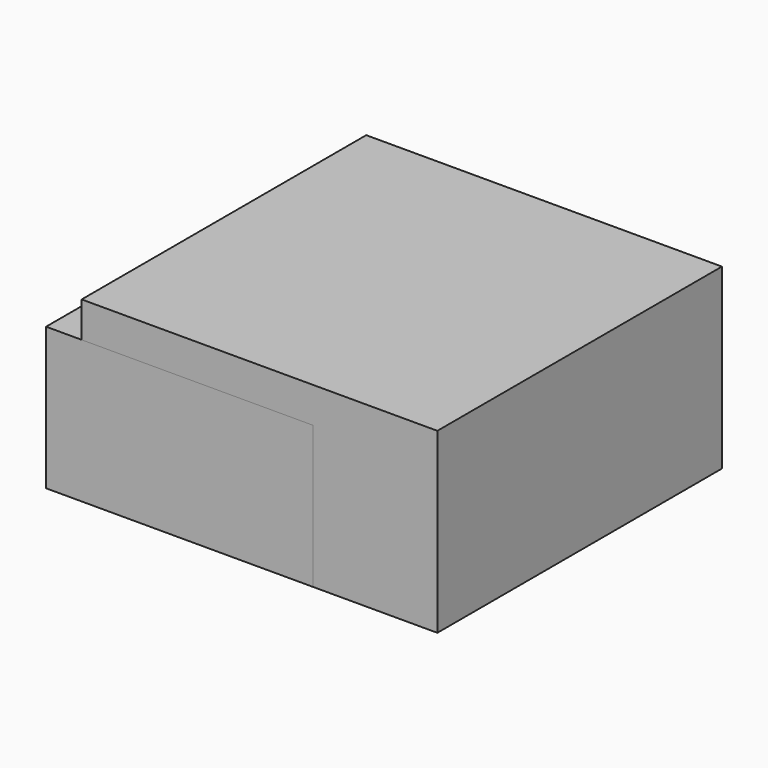
from build123d import *

# Parameters (mm, degrees)
F0_W     = 20
F0_H     = 20
F1_DEPTH = 10
F2_R     = 1.5
F3_DEPTH = 8


with BuildPart() as f1:
    # F0 (on Top) → F1 (new body)
    with BuildSketch(Plane.XY):
        Rectangle(F0_W, F0_H)
    extrude(amount=F1_DEPTH)


with BuildPart() as f3:
    # F2 (on Top) → F3 (new body)
    with BuildSketch(Plane.XY):
        Polygon((-12, -10), (3, -10), (3, 0), (0, 0), (0, 10), (-12, 10), (-12, 5), (-9, 5), (-9, -5), (-12, -5), align=None)
        with Locations((-4.5, 0)):
            Circle(F2_R, mode=Mode.SUBTRACT)
    extrude(amount=F3_DEPTH)


solid = Compound([f1.part, f3.part])
